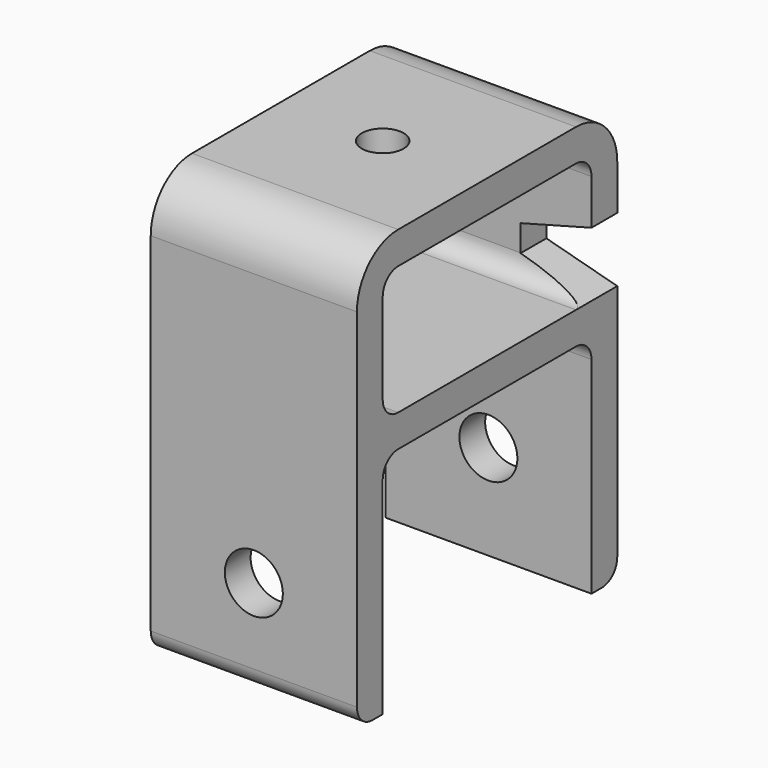
from build123d import *

# Parameters (mm, degrees)
PAD_DEPTH            = 16
SKETCH014_R          = 3.25
POCKET007_DEPTH      = 40
SKETCH015_R          = 4.5
POCKET008_DEPTH      = 45.501
POCKET008_DEPTH_BACK = -5.001
POCKET009_DEPTH      = 25.251


with BuildPart() as part:
    # Sketch → Pad (new body, symmetric)
    with BuildSketch(Plane.YZ):
        with BuildLine():
            Line((3, 0), (37.5, 0))
            ThreePointArc((40.5, -3), (39.62132, -0.87868), (37.5, 0))
            Line((40.5, -3), (40.5, -35))
            Line((40.5, -35), (42.5, -35))
            ThreePointArc((42.5, -35), (44.62132, -34.12132), (45.5, -32))
            Line((45.5, -32), (45.5, 22))
            ThreePointArc((45.5, 22), (43.156854, 27.656854), (37.5, 30))
            Line((3, 30), (37.5, 30))
            ThreePointArc((3, 30), (-2.656854, 27.656854), (-5, 22))
            Line((-5, -32), (-5, 22))
            ThreePointArc((-5, -32), (-4.12132, -34.12132), (-2, -35))
            Line((0, -35), (-2, -35))
            Line((0, -3), (0, -35))
            ThreePointArc((3, 0), (0.87868, -0.87868), (0, -3))
        make_face()
        with BuildLine():
            ThreePointArc((3, 25), (0.87868, 24.12132), (0, 22))
            Line((0, 8), (0, 22))
            ThreePointArc((0, 8), (0.87868, 5.87868), (3, 5))
            Line((37.5, 5), (3, 5))
            ThreePointArc((37.5, 5), (39.62132, 5.87868), (40.5, 8))
            Line((40.5, 22), (40.5, 8))
            ThreePointArc((40.5, 22), (39.62132, 24.12132), (37.5, 25))
            Line((3, 25), (37.5, 25))
        make_face(mode=Mode.SUBTRACT)
    extrude(amount=PAD_DEPTH, both=True)

    # Sketch014 → Pocket007 (cut)
    with BuildSketch(Plane.XY.offset(50)):
        with Locations((0, 20)):
            Circle(SKETCH014_R)
    extrude(amount=-POCKET007_DEPTH, mode=Mode.SUBTRACT)

    # Sketch015 → Pocket008 (cut, two sides)
    with BuildSketch(Plane.XZ) as pocket008_sk:
        with Locations((0, -20.25)):
            Circle(SKETCH015_R)
    extrude(amount=-POCKET008_DEPTH, mode=Mode.SUBTRACT)
    extrude(pocket008_sk.sketch, amount=-POCKET008_DEPTH_BACK, mode=Mode.SUBTRACT)

    # Sketch016 → Pocket009 (cut, through all)
    with BuildSketch(Plane.XZ.offset(-20.25)):
        Polygon((-56, 5), (-16, 5), (-5, 7.947441), (-5, 12.052559), (-16, 15), (-56, 15), align=None)
        Polygon((5, 12.052559), (5, 7.947441), (16, 5), (56, 5), (56, 15), (16, 15), align=None)
    extrude(amount=-POCKET009_DEPTH, mode=Mode.SUBTRACT)


solid = part.part
